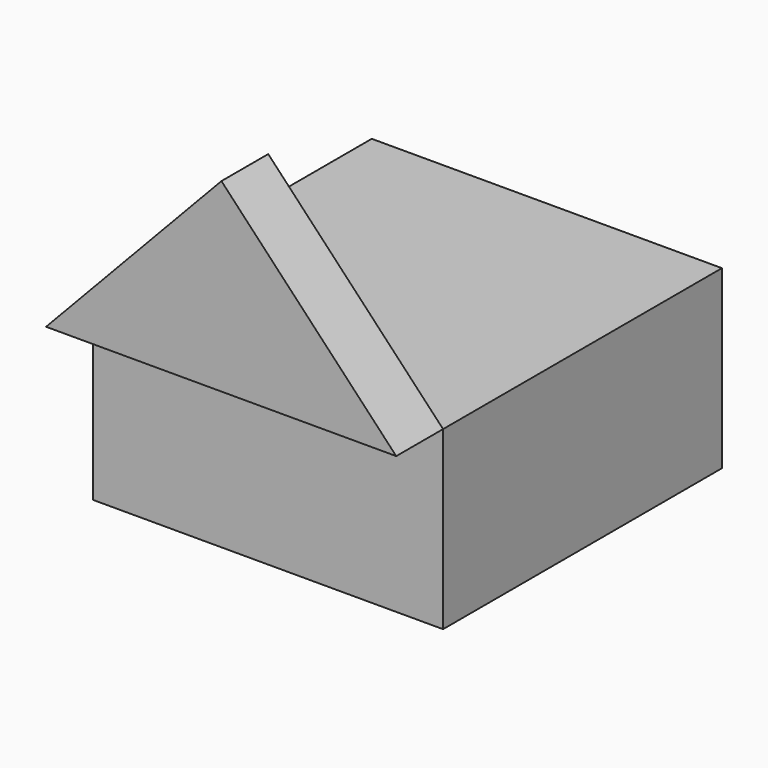
from build123d import *

# Parameters (mm, degrees)
F0_W     = 151.966393
F0_H     = 151.274591
F1_DEPTH = 76.454
F3_DEPTH = 25.4


with BuildPart() as f1:
    # F0 (on Top) → F1 (new body)
    with BuildSketch(Plane.XY):
        with Locations((-0.115298, -0.513137)):
            Rectangle(F0_W, F0_H)
    extrude(amount=F1_DEPTH)


with BuildPart() as f3:
    # F2 (on face) → F3 (new body)
    with BuildSketch(Plane.XZ.offset(76.150432)):
        Polygon((0, 156.86962), (-76.098494, 76.454), (75.867899, 76.454), align=None)
    extrude(amount=F3_DEPTH)


solid = Compound([f1.part, f3.part])
